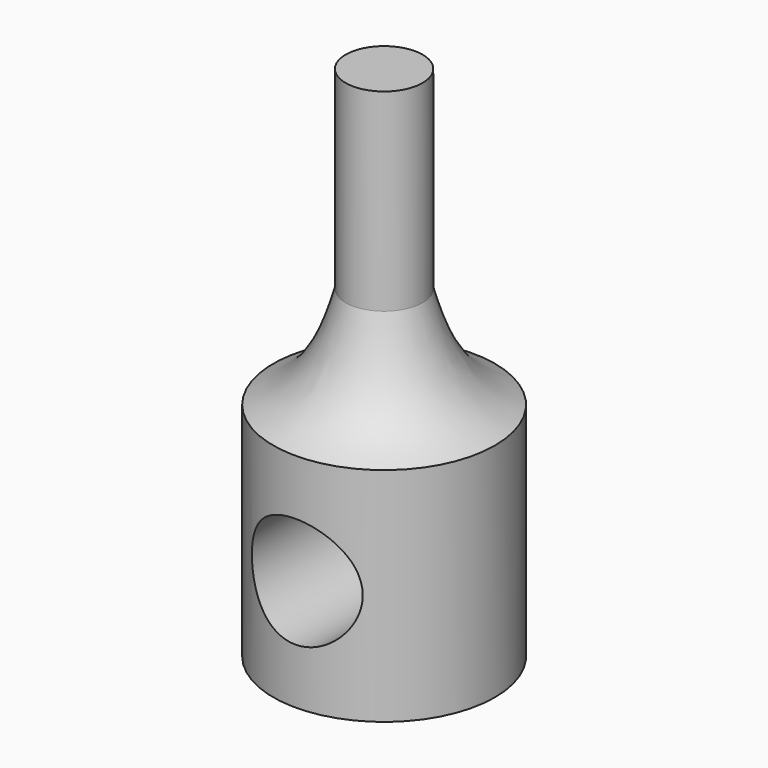
from build123d import *

# Parameters (mm, degrees)
F0_R          = 3.81
F0_R_2        = 1.3208
F1_DEPTH      = 7.62
F2_DEPTH      = 17.78
F3_R          = 1.905
F4_DEPTH      = 25.4
F4_DEPTH_BACK = 25.4


with BuildPart() as f1:
    # F0 (on Top) → F1 (new body)
    with BuildSketch(Plane.XY):
        Circle(F0_R)
        Circle(F0_R_2, mode=Mode.SUBTRACT)
        Circle(F0_R_2)
    extrude(amount=F1_DEPTH)

    # F0 (on Top) → F2 (join)
    with BuildSketch(Plane.XY):
        Circle(F0_R_2)
    extrude(amount=F2_DEPTH)

    # F3 (on Front) → F4 (cut, two sides)
    with BuildSketch(Plane.XZ) as f4_sk:
        with Locations((0, 3.81)):
            Circle(F3_R)
    extrude(amount=-F4_DEPTH, mode=Mode.SUBTRACT)
    extrude(f4_sk.sketch, amount=F4_DEPTH_BACK, mode=Mode.SUBTRACT)

    # F5 (on Front) → F6 (revolve)
    with BuildSketch(Plane.XZ):
        with BuildLine():
            Line((0, 15.0378467515), (0, 7.62))
            Line((0, 7.62), (3.81, 7.62))
            add(Edge.make_bspline(
                [(3.81, 7.62), (1.0146183195, 8.7640155107), (1.5803196002, 12.1609568596), (0, 15.0378467515)],
                knots=[0, 0, 0, 0, 8.3390976987, 8.3390976987, 8.3390976987, 8.3390976987], degree=3))
        make_face()
    revolve(axis=Axis((0, 0, 17.78), (0, 0, 1)))


solid = f1.part
